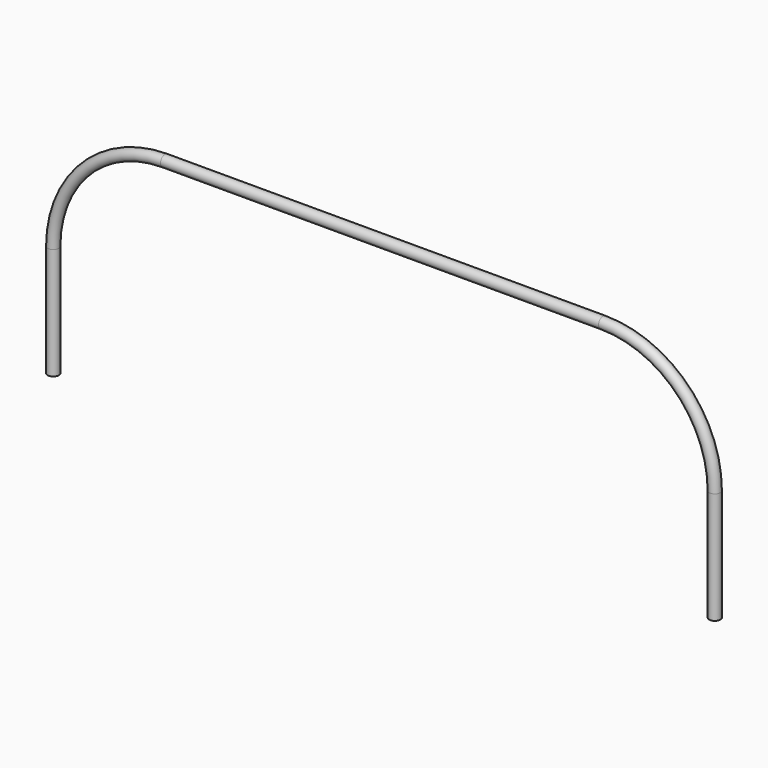
from build123d import *

# Parameters (mm, degrees)
F1_R = 12.7


with BuildPart() as f2:
    # F2: sweep along a path in F0
    with BuildLine(Plane.XZ) as f2_path:
        Line((0, 0), (0, 254))
        ThreePointArc((0, 254), (74.394878, 433.605122), (254, 508))
        Line((254, 508), (1249.68, 508))
        ThreePointArc((1249.68, 508), (1429.285122, 433.605122), (1503.68, 254))
        Line((1503.68, 254), (1503.68, 0))
    # F1 (on Top) → F2 (sweep)
    with BuildSketch(Plane.XY):
        Circle(F1_R)
    sweep(path=f2_path.line)


solid = f2.part
